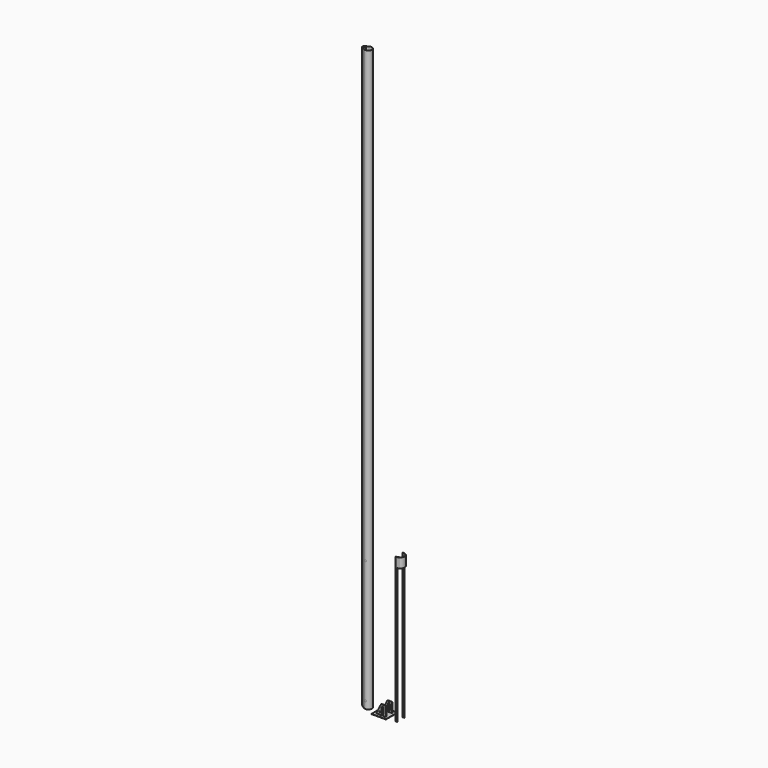
from build123d import *

# Parameters (mm, degrees)
F1_DEPTH  = 6096
F2_R      = 9.525
F3_DEPTH  = 38.1
F4_W      = 152.4
F4_H      = 152.4
F5_DEPTH  = 3.175
F6_W      = 101.6
F6_H      = 6.35
F7_DEPTH  = 101.6
F8_R      = 6.35
F9_DEPTH  = 120.651
F11_DEPTH = 1524
F12_W     = 75.010199
F12_H     = 1422.4
F13_DEPTH = 128.557149
F14_R     = 6.35
F15_DEPTH = 128.557149


with BuildPart() as f1:
    # F0 (on Top) → F1 (new body)
    with BuildSketch(Plane.XY):
        with BuildLine():
            Line((-60.0075, -6.35), (-20.81349, -31.912515))
            ThreePointArc((-20.81349, -31.912515), (38.1, 0), (-20.81349, 31.912515))
            Line((-20.81349, 31.912515), (-60.0075, 6.35))
            Line((-60.0075, 6.35), (-60.0075, 3.175))
            Line((-60.0075, 3.175), (-58.42, 3.175))
            Line((-58.42, 3.175), (-58.42, 5.490076))
            Line((-58.42, 5.490076), (-39.6875, 17.7075))
            Line((-39.6875, 17.7075), (-39.6875, 0))
            Line((-39.6875, 0), (-39.6875, -17.7075))
            Line((-39.6875, -17.7075), (-58.42, -5.490076))
            Line((-58.42, -5.490076), (-58.42, -3.175))
            Line((-58.42, -3.175), (-60.0075, -3.175))
            Line((-60.0075, -3.175), (-60.0075, -6.35))
        make_face()
        with BuildLine():
            ThreePointArc((-19.946262, 30.582827), (36.5125, 0), (-19.946262, -30.582827))
            Line((-19.946262, -30.582827), (-38.1, -18.742874))
            Line((-38.1, -18.742874), (-38.1, 18.742874))
            Line((-38.1, 18.742874), (-19.946262, 30.582827))
        make_face(mode=Mode.SUBTRACT)
    extrude(amount=F1_DEPTH)

    # F2 (on Front) → F3 (join, symmetric)
    with BuildSketch(Plane.XZ):
        with Locations((0, 1371.6)):
            Circle(F2_R)
        with Locations((0, 76.2)):
            Circle(F2_R)
    extrude(amount=F3_DEPTH, both=True)


with BuildPart() as f5:
    # F4 (on Top) → F5 (new body)
    with BuildSketch(Plane.XY):
        with Locations((171.167887, -1.798608)):
            Rectangle(F4_W, F4_H)
    extrude(amount=F5_DEPTH)

    # F6 (on face) → F7 (join)
    with BuildSketch(Plane.XY.offset(3.175)):
        with Locations((171.167887, 39.476392)):
            Rectangle(F6_W, F6_H)
        with Locations((171.167887, -43.073608)):
            Rectangle(F6_W, F6_H)
    extrude(amount=F7_DEPTH)

    # F8 (on face) → F9 (cut, through all)
    with BuildSketch(Plane.XZ.offset(46.248608)):
        with BuildLine():
            Line((190.217887, 85.725), (183.867887, 85.725))
            ThreePointArc((183.867887, 85.725), (179.377759, 83.865128), (177.517887, 79.375))
            Line((177.517887, 79.375), (177.517887, 22.225))
            ThreePointArc((177.517887, 22.225), (179.377759, 17.734872), (183.867887, 15.875))
            Line((183.867887, 15.875), (190.217887, 15.875))
            ThreePointArc((190.217887, 15.875), (194.708015, 17.734872), (196.567887, 22.225))
            Line((196.567887, 22.225), (196.567887, 79.375))
            ThreePointArc((196.567887, 79.375), (194.708015, 83.865128), (190.217887, 85.725))
        make_face()
        with Locations((158.467887, 28.575)):
            Circle(F8_R)
        Polygon((120.367887, 104.775), (120.367887, 3.175), (171.167887, 104.775), align=None)
    extrude(amount=-F9_DEPTH, mode=Mode.SUBTRACT)


with BuildPart() as f11:
    # F10 (on Top) → F11 (new body)
    with BuildSketch(Plane.XY):
        with BuildLine():
            Line((330.05426, 41.095242), (330.05426, 37.920242))
            Line((330.05426, 37.920242), (345.220115, 37.920242))
            Line((345.220115, 37.920242), (360.315929, 30.822798))
            ThreePointArc((360.315929, 30.822798), (384.02926, -6.529758), (360.315929, -43.882313))
            Line((360.315929, -43.882313), (345.220115, -50.979758))
            Line((345.220115, -50.979758), (330.05426, -50.979758))
            Line((330.05426, -50.979758), (330.05426, -54.154758))
            Line((330.05426, -54.154758), (345.92926, -54.154758))
            Line((345.92926, -54.154758), (361.666827, -46.755587))
            ThreePointArc((361.666827, -46.755587), (387.20426, -6.529758), (361.666827, 33.696071))
            Line((361.666827, 33.696071), (345.92926, 41.095242))
            Line((345.92926, 41.095242), (330.05426, 41.095242))
        make_face()
    extrude(amount=F11_DEPTH)

    # F12 (on face) → F13 (cut, through all)
    with BuildSketch(Plane.XZ.offset(54.154758)):
        with Locations((383.43436, 711.2)):
            Rectangle(F12_W, F12_H)
    extrude(amount=-F13_DEPTH, mode=Mode.SUBTRACT)

    # F14 (on face) → F15 (cut, through all)
    with BuildSketch(Plane.XZ.offset(54.154758)):
        with Locations((337.99176, 1371.6)):
            Circle(F14_R)
        with Locations((337.99176, 25.4)):
            Circle(F14_R)
    extrude(amount=-F15_DEPTH, mode=Mode.SUBTRACT)


solid = Compound([f1.part, f5.part, f11.part])
